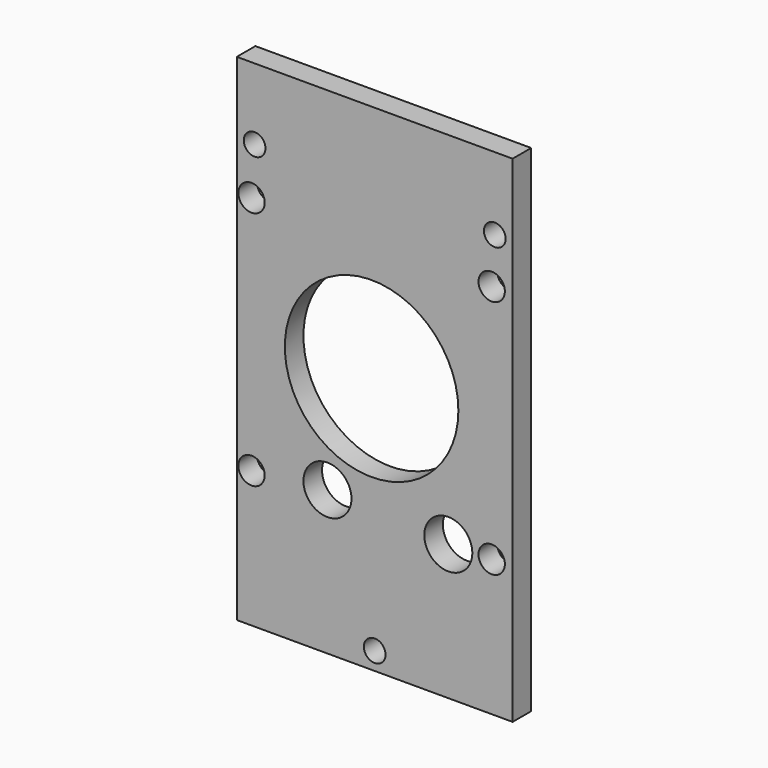
from build123d import *

# Parameters (mm, degrees)
CYLINDER229_R     = 11.2
CYLINDER229_DEPTH = 10
CYLINDER223_R     = 1.7
CYLINDER223_DEPTH = 10
CYLINDER221_R     = 1.4
CYLINDER221_DEPTH = 10
CYLINDER220_R     = 1.7
CYLINDER220_DEPTH = 10
CYLINDER224_R     = 1.7
CYLINDER224_DEPTH = 10
CYLINDER222_R     = 1.7
CYLINDER222_DEPTH = 10
CYLINDER226_R     = 1.4
CYLINDER226_DEPTH = 10
CYLINDER225_R     = 1.4
CYLINDER225_DEPTH = 10
CYLINDER215_R     = 3.1
CYLINDER215_DEPTH = 28
CYLINDER214_R     = 3.1
CYLINDER214_DEPTH = 28
BOX081_W          = 35.6
BOX081_H          = 3
BOX081_DEPTH      = 64


with BuildPart() as cylinder229:
    # Cylinder229 → Cylinder229 (new body)
    with BuildSketch(Plane(origin=(119.7, -14.3, 76.9), x_dir=(1, 0, 0), z_dir=(0, 1, 0))):
        Circle(CYLINDER229_R)
    extrude(amount=CYLINDER229_DEPTH)


with BuildPart() as cylinder223:
    # Cylinder223 → Cylinder223 (new body)
    with BuildSketch(Plane(origin=(135.2, -15, 61.4), x_dir=(1, 0, 0), z_dir=(0, 1, 0))):
        Circle(CYLINDER223_R)
    extrude(amount=CYLINDER223_DEPTH)


with BuildPart() as cylinder221:
    # Cylinder221 → Cylinder221 (new body)
    with BuildSketch(Plane(origin=(120.1, -15, 46.1), x_dir=(1, 0, 0), z_dir=(0, 1, 0))):
        Circle(CYLINDER221_R)
    extrude(amount=CYLINDER221_DEPTH)


with BuildPart() as cylinder220:
    # Cylinder220 → Cylinder220 (new body)
    with BuildSketch(Plane(origin=(104.2, -15, 61.4), x_dir=(1, 0, 0), z_dir=(0, 1, 0))):
        Circle(CYLINDER220_R)
    extrude(amount=CYLINDER220_DEPTH)


with BuildPart() as cylinder224:
    # Cylinder224 → Cylinder224 (new body)
    with BuildSketch(Plane(origin=(104.2, -15, 92.4), x_dir=(1, 0, 0), z_dir=(0, 1, 0))):
        Circle(CYLINDER224_R)
    extrude(amount=CYLINDER224_DEPTH)


with BuildPart() as cylinder222:
    # Cylinder222 → Cylinder222 (new body)
    with BuildSketch(Plane(origin=(135.2, -15, 92.4), x_dir=(1, 0, 0), z_dir=(0, 1, 0))):
        Circle(CYLINDER222_R)
    extrude(amount=CYLINDER222_DEPTH)


with BuildPart() as cylinder226:
    # Cylinder226 → Cylinder226 (new body)
    with BuildSketch(Plane(origin=(135.6, -15, 98.4), x_dir=(1, 0, 0), z_dir=(0, 1, 0))):
        Circle(CYLINDER226_R)
    extrude(amount=CYLINDER226_DEPTH)


with BuildPart() as cylinder225:
    # Cylinder225 → Cylinder225 (new body)
    with BuildSketch(Plane(origin=(104.6, -15, 98.6), x_dir=(1, 0, 0), z_dir=(0, 1, 0))):
        Circle(CYLINDER225_R)
    extrude(amount=CYLINDER225_DEPTH)


with BuildPart() as cylinder215:
    # Cylinder215 → Cylinder215 (new body)
    with BuildSketch(Plane(origin=(129.6, -11.9, 61.3), x_dir=(1, 0, 0), z_dir=(0, 1, 0))):
        Circle(CYLINDER215_R)
    extrude(amount=CYLINDER215_DEPTH)


with BuildPart() as cylinder214:
    # Cylinder214 → Cylinder214 (new body)
    with BuildSketch(Plane(origin=(114, -11.9, 62.4), x_dir=(1, 0, 0), z_dir=(0, 1, 0))):
        Circle(CYLINDER214_R)
    extrude(amount=CYLINDER214_DEPTH)


with BuildPart() as cut269:
    # Box081 → Box081 (new body)
    with BuildSketch(Plane(origin=(102.3, -11, 43.8), x_dir=(1, 0, 0), z_dir=(0, 0, 1))):
        with Locations((17.8, 1.5)):
            Rectangle(BOX081_W, BOX081_H)
    extrude(amount=BOX081_DEPTH)

    # Cut260: cut Cylinder214
    add(cylinder214.part, mode=Mode.SUBTRACT)

    # Cut261: cut Cylinder215
    add(cylinder215.part, mode=Mode.SUBTRACT)

    # Cut262: cut Cylinder225
    add(cylinder225.part, mode=Mode.SUBTRACT)

    # Cut263: cut Cylinder226
    add(cylinder226.part, mode=Mode.SUBTRACT)

    # Cut264: cut Cylinder222
    add(cylinder222.part, mode=Mode.SUBTRACT)

    # Cut265: cut Cylinder224
    add(cylinder224.part, mode=Mode.SUBTRACT)

    # Cut266: cut Cylinder220
    add(cylinder220.part, mode=Mode.SUBTRACT)

    # Cut267: cut Cylinder221
    add(cylinder221.part, mode=Mode.SUBTRACT)

    # Cut268: cut Cylinder223
    add(cylinder223.part, mode=Mode.SUBTRACT)

    # Cut269: cut Cylinder229
    add(cylinder229.part, mode=Mode.SUBTRACT)


solid = cut269.part
